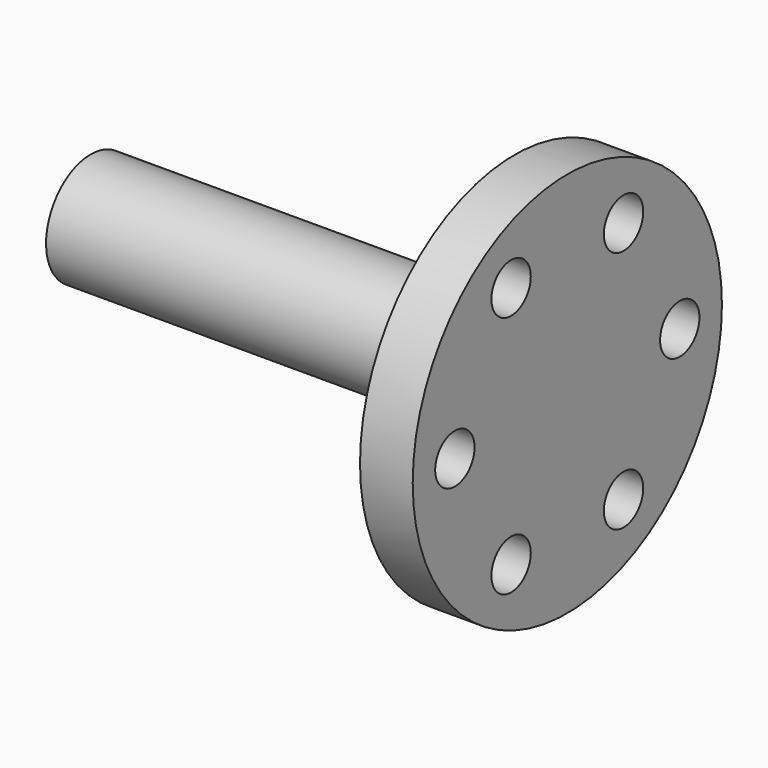
from build123d import *

# Parameters (mm, degrees)
F2_R     = 55
F2_R_2   = 7
F3_DEPTH = 15


with BuildPart() as f1:
    # F0 (on Front) → F1 (revolve)
    with BuildSketch(Plane.XZ):
        Polygon((0, 15.875), (0, 12.875), (120.65, 5.875), (120.65, 15.875), align=None)
    revolve(axis=Axis((60.325, 0, 0), (1, 0, 0)))


with BuildPart() as f3:
    # F2 (on face) → F3 (new body)
    with BuildSketch(Plane.YZ.offset(120.65)):
        Circle(F2_R)
        with Locations((-20, -34.641016)):
            Circle(F2_R_2, mode=Mode.SUBTRACT)
        with Locations((20, -34.641016)):
            Circle(F2_R_2, mode=Mode.SUBTRACT)
        with Locations((-40, 0)):
            Circle(F2_R_2, mode=Mode.SUBTRACT)
        with Locations((-20, 34.641016)):
            Circle(F2_R_2, mode=Mode.SUBTRACT)
        with Locations((40, 0)):
            Circle(F2_R_2, mode=Mode.SUBTRACT)
        with Locations((20, 34.641016)):
            Circle(F2_R_2, mode=Mode.SUBTRACT)
    extrude(amount=F3_DEPTH)


solid = Compound([f1.part, f3.part])
